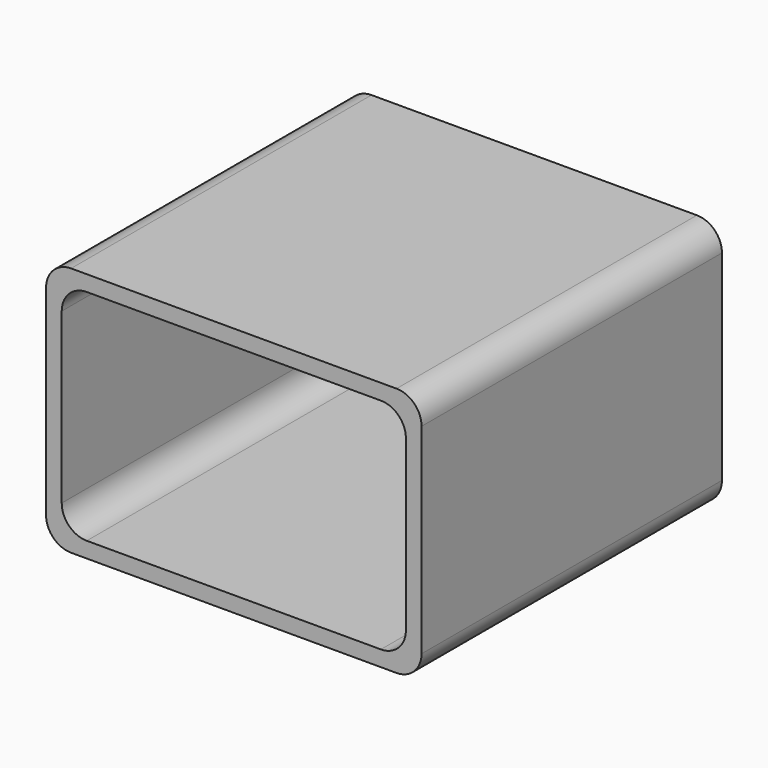
from build123d import *

# Parameters (mm, degrees)
F0_W     = 76.2
F0_H     = 50.8
F1_DEPTH = 76.2
F2_T     = -3.175
F3_R     = 5.08


with BuildPart() as f1:
    # F0 (on Front) → F1 (new body)
    with BuildSketch(Plane.XZ):
        with Locations((7.1646266146, -4.8404615372)):
            Rectangle(F0_W, F0_H)
    extrude(amount=F1_DEPTH)

    # F2
    f2_openings = [f1.faces().sort_by_distance(p)[0] for p in [
        (7.164627, -76.2, -4.840462),
        (7.164627, 0, -4.840462),
    ]]
    offset(amount=F2_T, openings=f2_openings)

    # F3
    f3_edges = [f1.edges().sort_by_distance(p)[0] for p in [
        (45.264627, -38.1, 20.559538),
        (-30.935373, -38.1, 20.559538),
        (45.264627, -38.1, -30.240462),
        (-30.935373, -38.1, -30.240462),
        (42.089627, -38.1, -27.065462),
        (-27.760373, -38.1, -27.065462),
        (-27.760373, -38.1, 17.384538),
        (42.089627, -38.1, 17.384538),
    ]]
    fillet(f3_edges, radius=F3_R)


solid = f1.part
